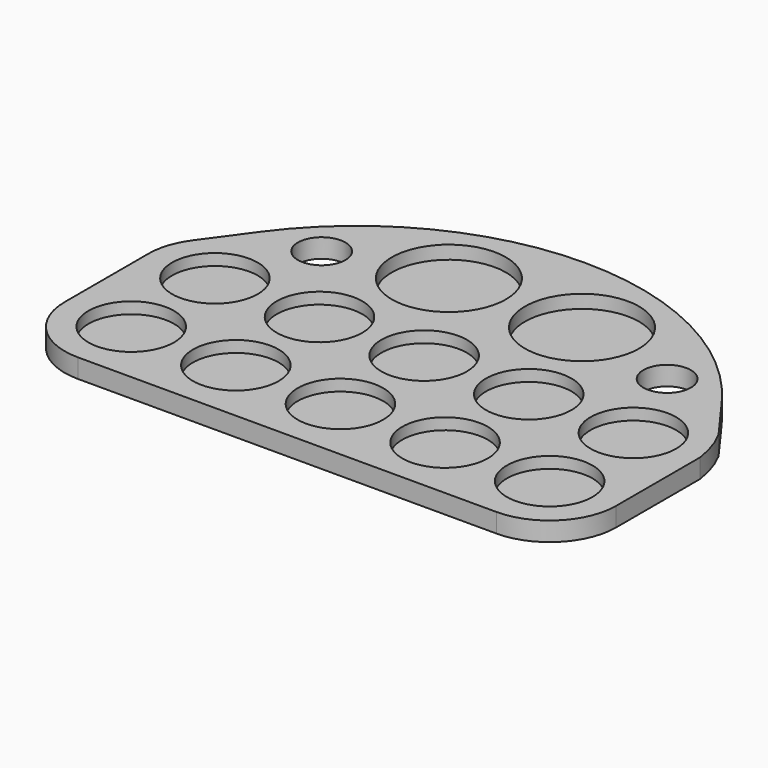
from build123d import *

# Parameters (mm, degrees)
F0_R     = 11.25
F0_R_2   = 6.25
F0_R_3   = 15
F1_DEPTH = 5
F2_DEPTH = 1.5
F3_DEPTH = 2


with BuildPart() as f1:
    # F0 (on Top) → F1 (new body)
    with BuildSketch(Plane.XY):
        with BuildLine():
            ThreePointArc((3.34966, 55.296498), (0.858471, 50.413827), (0, 45))
            Line((0, 45), (0, 17.5))
            ThreePointArc((0, 17.5), (5.125631, 5.125631), (17.5, 0))
            Line((17.5, 0), (127.5, 0))
            ThreePointArc((127.5, 0), (139.874369, 5.125631), (145, 17.5))
            Line((145, 17.5), (145, 45))
            ThreePointArc((145, 45), (143.800402, 50.302852), (141.65034, 55.296498))
            Line((141.65034, 55.296498), (133.144315, 66.986215))
            ThreePointArc((133.144315, 66.986215), (106.525074, 89.696187), (72.5, 97.858366))
            ThreePointArc((72.5, 97.858366), (38.474926, 89.696187), (11.855685, 66.986215))
            Line((11.855685, 66.986215), (3.34966, 55.296498))
        make_face()
        with Locations((17.5, 17.5)):
            Circle(F0_R, mode=Mode.SUBTRACT)
        with Locations((45, 17.5)):
            Circle(F0_R, mode=Mode.SUBTRACT)
        with Locations((17.5, 45)):
            Circle(F0_R, mode=Mode.SUBTRACT)
        with Locations((45, 45)):
            Circle(F0_R, mode=Mode.SUBTRACT)
        with Locations((72.5, 17.5)):
            Circle(F0_R, mode=Mode.SUBTRACT)
        with Locations((100, 17.5)):
            Circle(F0_R, mode=Mode.SUBTRACT)
        with Locations((127.5, 17.5)):
            Circle(F0_R, mode=Mode.SUBTRACT)
        with Locations((72.5, 45)):
            Circle(F0_R, mode=Mode.SUBTRACT)
        with Locations((100, 45)):
            Circle(F0_R, mode=Mode.SUBTRACT)
        with Locations((127.5, 45)):
            Circle(F0_R, mode=Mode.SUBTRACT)
        with Locations((27.093764, 68.08592)):
            Circle(F0_R_2, mode=Mode.SUBTRACT)
        with Locations((55, 75)):
            Circle(F0_R_3, mode=Mode.SUBTRACT)
        with Locations((117.906236, 68.08592)):
            Circle(F0_R_2, mode=Mode.SUBTRACT)
        with Locations((90, 75)):
            Circle(F0_R_3, mode=Mode.SUBTRACT)
    extrude(amount=F1_DEPTH)

    # F0 (on Top) → F2 (join)
    with BuildSketch(Plane.XY):
        with Locations((55, 75)):
            Circle(F0_R_3)
        with Locations((90, 75)):
            Circle(F0_R_3)
    extrude(amount=F2_DEPTH)

    # F0 (on Top) → F3 (join)
    with BuildSketch(Plane.XY):
        with Locations((17.5, 45)):
            Circle(F0_R)
        with Locations((17.5, 17.5)):
            Circle(F0_R)
        with Locations((45, 45)):
            Circle(F0_R)
        with Locations((45, 17.5)):
            Circle(F0_R)
        with Locations((72.5, 45)):
            Circle(F0_R)
        with Locations((72.5, 17.5)):
            Circle(F0_R)
        with Locations((100, 45)):
            Circle(F0_R)
        with Locations((100, 17.5)):
            Circle(F0_R)
        with Locations((127.5, 45)):
            Circle(F0_R)
        with Locations((127.5, 17.5)):
            Circle(F0_R)
    extrude(amount=F3_DEPTH)


solid = f1.part
